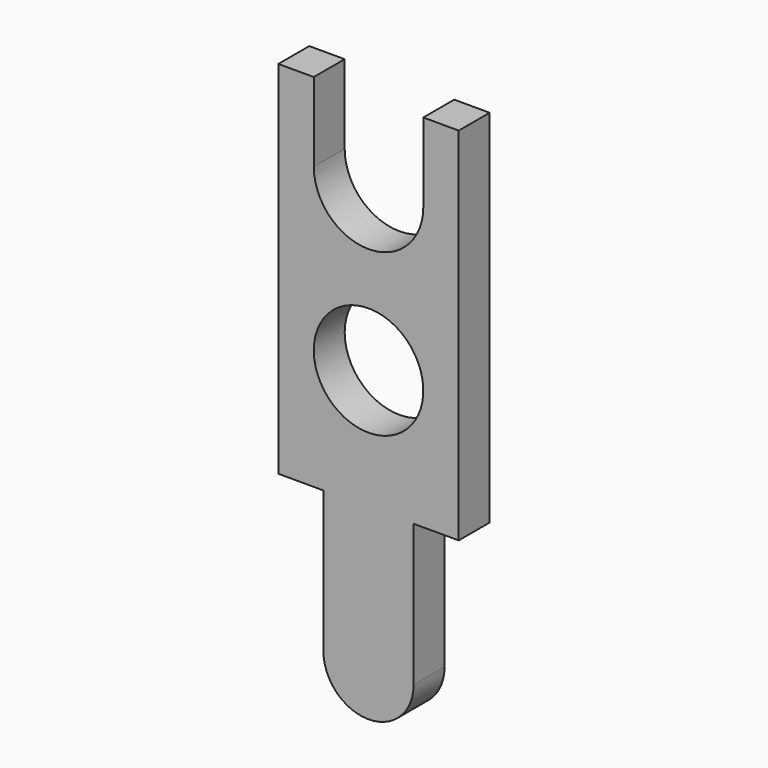
from build123d import *

# Parameters (mm, degrees)
SKETCH_R  = 0.85
PAD_DEPTH = 0.3


with BuildPart() as part:
    # Sketch → Pad (new body, symmetric)
    with BuildSketch(Plane(origin=(0, 0, 0), x_dir=(-1, 0, 0), z_dir=(0, 1, 0))):
        with BuildLine():
            Line((-1.4, 5.6), (-1.4, 0))
            Line((-1.4, 0), (-0.7, 0))
            Line((-0.7, 0), (-0.7, -2.2))
            ThreePointArc((-0.7, -2.2), (0, -2.9), (0.7, -2.2))
            Line((0.7, 0), (0.7, -2.2))
            Line((0.7, 0), (1.4, 0))
            Line((1.4, 0), (1.4, 5.6))
            Line((1.4, 5.6), (0.85, 5.6))
            Line((0.85, 5.6), (0.85, 4.375))
            ThreePointArc((-0.85, 4.375), (0, 3.525), (0.85, 4.375))
            Line((-0.85, 4.375), (-0.85, 5.6))
            Line((-0.85, 5.6), (-1.4, 5.6))
        make_face()
        with Locations((0, 1.86648)):
            Circle(SKETCH_R, mode=Mode.SUBTRACT)
    extrude(amount=PAD_DEPTH, both=True)


solid = part.part
